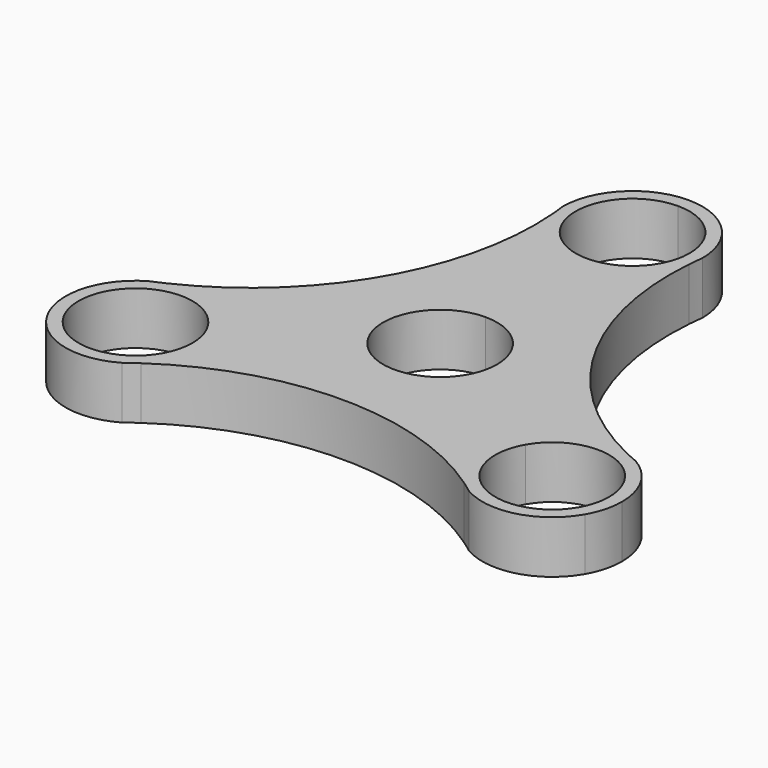
from build123d import *

# Parameters (mm, degrees)
F1_DEPTH = 10.16


with BuildPart() as f1:
    # F0 (on Top) → F1 (new body)
    with BuildSketch(Plane.XY):
        with BuildLine():
            ThreePointArc((-56.6579215229, 45.1149829328), (-48.8797469298, 41.8931575259), (-45.6579215229, 34.1149829328))
            ThreePointArc((-45.6579215229, 34.1149829328), (-46.0327374337, 31.2679734367), (-47.1316420812, 28.6149829328))
            Line((-47.1316420812, 28.6149829328), (-28.079083198, 17.6149829328))
            ThreePointArc((-28.079083198, 17.6149829328), (-21.2398684944, 23.4628736876), (-12.2448795932, 23.7135900793))
            ThreePointArc((-12.2448795932, 23.7135900793), (-36.2661762378, 45.8881625624), (-43.4592710039, 77.77850193))
            ThreePointArc((-43.4592710039, 77.77850193), (-48.1738922189, 70.1139712306), (-56.6579215229, 67.1149829328))
            Line((-56.6579215229, 67.1149829328), (-56.6579215229, 45.1149829328))
        make_face()
        with BuildLine():
            ThreePointArc((-66.1842009645, 28.6149829328), (-66.1842009645, 39.6149829328), (-56.6579215229, 45.1149829328))
            Line((-56.6579215229, 45.1149829328), (-56.6579215229, 67.1149829328))
            ThreePointArc((-56.6579215229, 67.1149829328), (-65.1419508269, 70.1139712306), (-69.8565720418, 77.77850193))
            ThreePointArc((-69.8565720418, 77.77850193), (-77.0496668079, 45.8881625624), (-101.0709634525, 23.7135900793))
            ThreePointArc((-101.0709634525, 23.7135900793), (-92.0759745513, 23.4628736876), (-85.2367598477, 17.6149829328))
            Line((-85.2367598477, 17.6149829328), (-66.1842009645, 28.6149829328))
        make_face()
        with BuildLine():
            Line((-28.079083198, 17.6149829328), (-47.1316420812, 28.6149829328))
            ThreePointArc((-47.1316420812, 28.6149829328), (-56.6579215229, 23.1149829328), (-66.1842009645, 28.6149829328))
            Line((-66.1842009645, 28.6149829328), (-85.2367598477, 17.6149829328))
            ThreePointArc((-85.2367598477, 17.6149829328), (-83.8881041439, 14.3590400417), (-83.4281027988, 10.8649829328))
            ThreePointArc((-83.4281027988, 10.8649829328), (-84.5890760305, 5.3879017384), (-87.8723129336, 0.8528567891))
            ThreePointArc((-87.8723129336, 0.8528567891), (-56.6579215229, 10.5686236737), (-25.4435301121, 0.8528567891))
            ThreePointArc((-25.4435301121, 0.8528567891), (-29.7238977984, 8.7681038802), (-28.079083198, 17.6149829328))
        make_face()
        with BuildLine():
            Line((-25.9140196885, 16.3649829328), (-28.079083198, 17.6149829328))
            ThreePointArc((-28.079083198, 17.6149829328), (-29.7238977984, 8.7681038802), (-25.4435301121, 0.8528567891))
            ThreePointArc((-25.4435301121, 0.8528567891), (-24.2797472769, 0.0281989359), (-23.1377402469, -0.8263600183))
            ThreePointArc((-23.1377402469, -0.8263600183), (-12.893683138, -2.1750157221), (-4.6963972958, 4.1149829328))
            Line((-4.6963972958, 4.1149829328), (-6.8614608053, 5.3649829328))
            ThreePointArc((-6.8614608053, 5.3649829328), (-21.8877402469, 1.3387034912), (-25.9140196885, 16.3649829328))
        make_face()
        with BuildLine():
            ThreePointArc((-12.2448795932, 23.7135900793), (-21.2398684944, 23.4628736876), (-28.079083198, 17.6149829328))
            Line((-28.079083198, 17.6149829328), (-25.9140196885, 16.3649829328))
            ThreePointArc((-25.9140196885, 16.3649829328), (-13.5407307508, 21.490167022), (-5.3877402469, 10.8649829328))
            ThreePointArc((-5.3877402469, 10.8649829328), (-5.7625561577, 8.0179734367), (-6.8614608053, 5.3649829328))
            Line((-6.8614608053, 5.3649829328), (-4.6963972958, 4.1149829328))
            ThreePointArc((-4.6963972958, 4.1149829328), (-3.347741592, 7.3709258239), (-2.8877402469, 10.8649829328))
            ThreePointArc((-2.8877402469, 10.8649829328), (-4.6963972958, 17.6149829328), (-9.6377402469, 22.5563258839))
            ThreePointArc((-9.6377402469, 22.5563258839), (-10.9488135252, 23.1180535061), (-12.2448795932, 23.7135900793))
        make_face()
        with BuildLine():
            ThreePointArc((-83.4281027988, 10.8649829328), (-83.8881041439, 14.3590400417), (-85.2367598477, 17.6149829328))
            Line((-85.2367598477, 17.6149829328), (-87.4018233572, 16.3649829328))
            ThreePointArc((-87.4018233572, 16.3649829328), (-86.3029187097, 13.7119924289), (-85.9281027988, 10.8649829328))
            ThreePointArc((-85.9281027988, 10.8649829328), (-94.0810933027, 0.2397988436), (-106.4543822405, 5.3649829328))
            Line((-106.4543822405, 5.3649829328), (-108.6194457499, 4.1149829328))
            ThreePointArc((-108.6194457499, 4.1149829328), (-100.4221599077, -2.1750157221), (-90.1781027988, -0.8263600183))
            ThreePointArc((-90.1781027988, -0.8263600183), (-89.0360957689, 0.0281989359), (-87.8723129336, 0.8528567891))
            ThreePointArc((-87.8723129336, 0.8528567891), (-84.5890760305, 5.3879017384), (-83.4281027988, 10.8649829328))
        make_face()
        with BuildLine():
            Line((-87.4018233572, 16.3649829328), (-85.2367598477, 17.6149829328))
            ThreePointArc((-85.2367598477, 17.6149829328), (-92.0759745513, 23.4628736876), (-101.0709634525, 23.7135900793))
            ThreePointArc((-101.0709634525, 23.7135900793), (-102.3670295205, 23.1180535061), (-103.6781027988, 22.5563258839))
            ThreePointArc((-103.6781027988, 22.5563258839), (-109.9681014537, 14.3590400417), (-108.6194457499, 4.1149829328))
            Line((-108.6194457499, 4.1149829328), (-106.4543822405, 5.3649829328))
            ThreePointArc((-106.4543822405, 5.3649829328), (-102.4281027988, 20.3912623744), (-87.4018233572, 16.3649829328))
        make_face()
        with BuildLine():
            Line((-56.6579215229, 69.6149829328), (-56.6579215229, 67.1149829328))
            ThreePointArc((-56.6579215229, 67.1149829328), (-48.1738922189, 70.1139712306), (-43.4592710039, 77.77850193))
            ThreePointArc((-43.4592710039, 77.77850193), (-43.3269877712, 79.1986963565), (-43.1579215229, 80.6149829328))
            ThreePointArc((-43.1579215229, 80.6149829328), (-47.1119799768, 90.1609244788), (-56.6579215229, 94.1149829328))
            Line((-56.6579215229, 94.1149829328), (-56.6579215229, 91.6149829328))
            ThreePointArc((-56.6579215229, 91.6149829328), (-48.8797469298, 88.3931575259), (-45.6579215229, 80.6149829328))
            ThreePointArc((-45.6579215229, 80.6149829328), (-48.8797469298, 72.8368083398), (-56.6579215229, 69.6149829328))
        make_face()
        with BuildLine():
            ThreePointArc((-69.8565720418, 77.77850193), (-65.1419508269, 70.1139712306), (-56.6579215229, 67.1149829328))
            Line((-56.6579215229, 67.1149829328), (-56.6579215229, 69.6149829328))
            ThreePointArc((-56.6579215229, 69.6149829328), (-67.6579215229, 80.6149829328), (-56.6579215229, 91.6149829328))
            Line((-56.6579215229, 91.6149829328), (-56.6579215229, 94.1149829328))
            ThreePointArc((-56.6579215229, 94.1149829328), (-66.2038630689, 90.1609244788), (-70.1579215229, 80.6149829328))
            ThreePointArc((-70.1579215229, 80.6149829328), (-69.9888552745, 79.1986963565), (-69.8565720418, 77.77850193))
        make_face()
    extrude(amount=F1_DEPTH)


solid = f1.part
